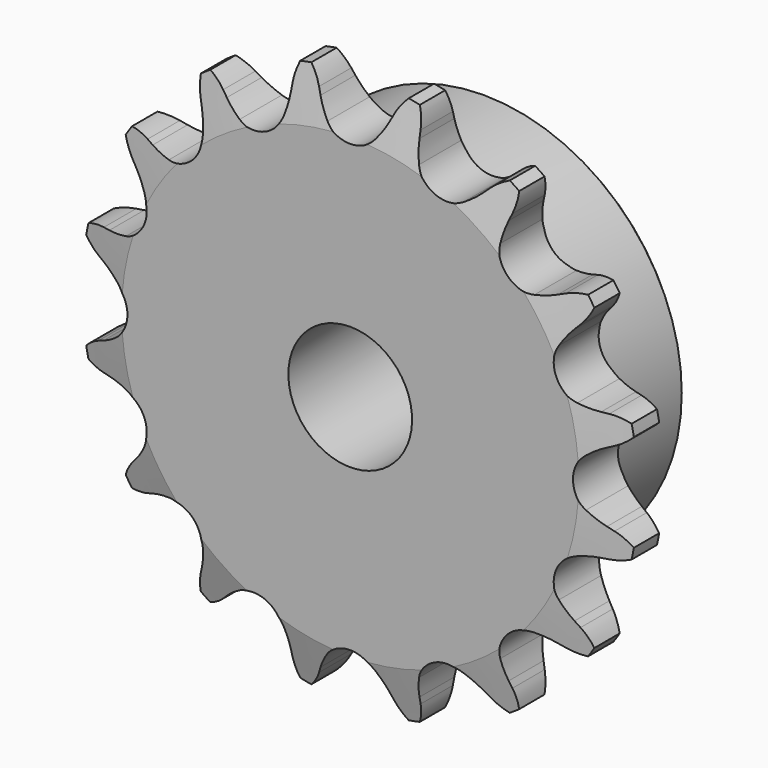
from build123d import *

# Parameters (mm, degrees)
F0_W     = 7.2136
F0_H     = 10.287
F0_H_2   = 17.4625
F0_W_2   = 15.0114
F2_R     = 1.5875
F3_SIZE  = 0.79375
F4_SIZE2 = 6.35
F4_SIZE  = 1.5748
F6_DEPTH = 22.226


with BuildPart() as f1:
    # F0 (on Right) → F1 (revolve)
    with BuildSketch(Plane.YZ):
        with Locations((2.0406591741, 30.5435)):
            Rectangle(F0_W, F0_H)
        with Locations((2.0406591741, 16.66875)):
            Rectangle(F0_W, F0_H_2)
        with Locations((13.1531591741, 16.66875)):
            Rectangle(F0_W_2, F0_H_2)
    revolve(axis=Axis((0, 10.329429587, 0), (0, 1, 0)))

    # F2
    f2_edges = [f1.edges().sort_by_distance(p)[0] for p in [
        (0, 5.647459, -25.4),
    ]]
    fillet(f2_edges, radius=F2_R)

    # F3
    f3_edges = [f1.edges().sort_by_distance(p)[0] for p in [
        (0, 20.658859, -25.4),
    ]]
    chamfer(f3_edges, length=F3_SIZE)

    # F4
    f4_edges = [f1.edges().sort_by_distance(p)[0] for p in [
        (0, -1.566141, -35.687),
        (0, 5.647459, -35.687),
    ]]
    f4_side = f1.faces().sort_by_distance((0, 2.040659, -35.687))[0]
    chamfer(f4_edges, length=F4_SIZE, length2=F4_SIZE2, reference=f4_side)

    # F5 (on face) → F6 (intersect, through all)
    with BuildSketch(Plane.XZ.offset(1.5661408259)):
        with BuildLine():
            ThreePointArc((-3.0902142758, 30.0699408338), (-3.8441959519, 31.1417538349), (-4.4568878106, 32.3001493474))
            Line((-4.4568878106, 32.3001493474), (-4.8164154778, 33.0982711732))
            ThreePointArc((-4.8164154778, 33.0982711732), (-5.7824590494, 34.6345413147), (-7.1308367855, 35.8491373836))
            ThreePointArc((-7.1308367855, 35.8491373836), (-7.9117695854, 34.2109951151), (-8.2163723379, 32.4219777052))
            Line((-8.2163723379, 32.4219777052), (-8.2431045912, 31.5470240041))
            ThreePointArc((-8.2431045912, 31.5470240041), (-8.3658592885, 30.2423390761), (-8.6522824488, 28.963576686))
            ThreePointArc((-8.6522824488, 28.963576686), (-10.9400391594, 26.4115909116), (-14.3622538898, 26.5984290744))
            ThreePointArc((-14.3622538898, 26.5984290744), (-15.4690072063, 27.300118873), (-16.4783594451, 28.135869754))
            Line((-16.4783594451, 28.135869754), (-17.115947698, 28.7356528917))
            ThreePointArc((-17.115947698, 28.7356528917), (-18.596360712, 29.7852925621), (-20.3069050971, 30.3914311902))
            ThreePointArc((-20.3069050971, 30.3914311902), (-20.4015030212, 28.5791350327), (-19.9982919468, 26.8097320375))
            Line((-19.9982919468, 26.8097320375), (-19.688159043, 25.9911502307))
            ThreePointArc((-19.688159043, 25.9911502307), (-19.3022882889, 24.7388023405), (-19.0775476037, 23.4477705432))
            ThreePointArc((-19.0775476037, 23.4477705432), (-20.2145565285, 20.2145565285), (-23.4477705432, 19.0775476037))
            ThreePointArc((-23.4477705432, 19.0775476037), (-24.7388023405, 19.3022882889), (-25.9911502307, 19.688159043))
            Line((-25.9911502307, 19.688159043), (-26.8097320375, 19.9982919468))
            ThreePointArc((-26.8097320375, 19.9982919468), (-28.5791350327, 20.4015030212), (-30.3914311902, 20.3069050971))
            ThreePointArc((-30.3914311902, 20.3069050971), (-29.7852925621, 18.596360712), (-28.7356528917, 17.115947698))
            Line((-28.7356528917, 17.115947698), (-28.135869754, 16.4783594451))
            ThreePointArc((-28.135869754, 16.4783594451), (-27.300118873, 15.4690072063), (-26.5984290744, 14.3622538898))
            ThreePointArc((-26.5984290744, 14.3622538898), (-26.4115909116, 10.9400391594), (-28.963576686, 8.6522824488))
            ThreePointArc((-28.963576686, 8.6522824488), (-30.2423390761, 8.3658592885), (-31.5470240041, 8.2431045912))
            Line((-31.5470240041, 8.2431045912), (-32.4219777052, 8.2163723379))
            ThreePointArc((-32.4219777052, 8.2163723379), (-34.2109951151, 7.9117695854), (-35.8491373836, 7.1308367855))
            ThreePointArc((-35.8491373836, 7.1308367855), (-34.6345413147, 5.7824590494), (-33.0982711732, 4.8164154778))
            Line((-33.0982711732, 4.8164154778), (-32.3001493474, 4.4568878106))
            ThreePointArc((-32.3001493474, 4.4568878106), (-31.1417538349, 3.8441959519), (-30.0699408338, 3.0902142758))
            ThreePointArc((-30.0699408338, 3.0902142758), (-28.5877, 0), (-30.0699408338, -3.0902142758))
            ThreePointArc((-30.0699408338, -3.0902142758), (-31.1417538349, -3.8441959519), (-32.3001493474, -4.4568878106))
            Line((-32.3001493474, -4.4568878106), (-33.0982711732, -4.8164154778))
            ThreePointArc((-33.0982711732, -4.8164154778), (-34.6345413147, -5.7824590494), (-35.8491373836, -7.1308367855))
            ThreePointArc((-35.8491373836, -7.1308367855), (-34.2109951151, -7.9117695854), (-32.4219777052, -8.2163723379))
            Line((-32.4219777052, -8.2163723379), (-31.5470240041, -8.2431045912))
            ThreePointArc((-31.5470240041, -8.2431045912), (-30.2423390761, -8.3658592885), (-28.963576686, -8.6522824488))
            ThreePointArc((-28.963576686, -8.6522824488), (-26.4115909116, -10.9400391594), (-26.5984290744, -14.3622538898))
            ThreePointArc((-26.5984290744, -14.3622538898), (-27.300118873, -15.4690072063), (-28.135869754, -16.4783594451))
            Line((-28.135869754, -16.4783594451), (-28.7356528917, -17.115947698))
            ThreePointArc((-28.7356528917, -17.115947698), (-29.7852925621, -18.596360712), (-30.3914311902, -20.3069050971))
            ThreePointArc((-30.3914311902, -20.3069050971), (-28.5791350327, -20.4015030212), (-26.8097320375, -19.9982919468))
            Line((-26.8097320375, -19.9982919468), (-25.9911502307, -19.688159043))
            ThreePointArc((-25.9911502307, -19.688159043), (-24.7388023405, -19.3022882889), (-23.4477705432, -19.0775476037))
            ThreePointArc((-23.4477705432, -19.0775476037), (-20.2145565285, -20.2145565285), (-19.0775476037, -23.4477705432))
            ThreePointArc((-19.0775476037, -23.4477705432), (-19.3022882889, -24.7388023405), (-19.688159043, -25.9911502307))
            Line((-19.688159043, -25.9911502307), (-19.9982919468, -26.8097320375))
            ThreePointArc((-19.9982919468, -26.8097320375), (-20.4015030212, -28.5791350327), (-20.3069050971, -30.3914311902))
            ThreePointArc((-20.3069050971, -30.3914311902), (-18.596360712, -29.7852925621), (-17.115947698, -28.7356528917))
            Line((-17.115947698, -28.7356528917), (-16.4783594451, -28.135869754))
            ThreePointArc((-16.4783594451, -28.135869754), (-15.4690072063, -27.300118873), (-14.3622538898, -26.5984290744))
            ThreePointArc((-14.3622538898, -26.5984290744), (-10.9400391594, -26.4115909116), (-8.6522824488, -28.963576686))
            ThreePointArc((-8.6522824488, -28.963576686), (-8.3658592885, -30.2423390761), (-8.2431045912, -31.5470240041))
            Line((-8.2431045912, -31.5470240041), (-8.2163723379, -32.4219777052))
            ThreePointArc((-8.2163723379, -32.4219777052), (-7.9117695854, -34.2109951151), (-7.1308367855, -35.8491373836))
            ThreePointArc((-7.1308367855, -35.8491373836), (-5.7824590494, -34.6345413147), (-4.8164154778, -33.0982711732))
            Line((-4.8164154778, -33.0982711732), (-4.4568878106, -32.3001493474))
            ThreePointArc((-4.4568878106, -32.3001493474), (-3.8441959519, -31.1417538349), (-3.0902142758, -30.0699408338))
            ThreePointArc((-3.0902142758, -30.0699408338), (0, -28.5877), (3.0902142758, -30.0699408338))
            ThreePointArc((3.0902142758, -30.0699408338), (3.8441959519, -31.1417538349), (4.4568878106, -32.3001493474))
            Line((4.4568878106, -32.3001493474), (4.8164154778, -33.0982711732))
            ThreePointArc((4.8164154778, -33.0982711732), (5.7824590494, -34.6345413147), (7.1308367855, -35.8491373836))
            ThreePointArc((7.1308367855, -35.8491373836), (7.9117695854, -34.2109951151), (8.2163723379, -32.4219777052))
            Line((8.2163723379, -32.4219777052), (8.2431045912, -31.5470240041))
            ThreePointArc((8.2431045912, -31.5470240041), (8.3658592885, -30.2423390761), (8.6522824488, -28.963576686))
            ThreePointArc((8.6522824488, -28.963576686), (10.9400391594, -26.4115909116), (14.3622538898, -26.5984290744))
            ThreePointArc((14.3622538898, -26.5984290744), (15.4690072063, -27.300118873), (16.4783594451, -28.135869754))
            Line((16.4783594451, -28.135869754), (17.115947698, -28.7356528917))
            ThreePointArc((17.115947698, -28.7356528917), (18.596360712, -29.7852925621), (20.3069050971, -30.3914311902))
            ThreePointArc((20.3069050971, -30.3914311902), (20.4015030212, -28.5791350327), (19.9982919468, -26.8097320375))
            Line((19.9982919468, -26.8097320375), (19.688159043, -25.9911502307))
            ThreePointArc((19.688159043, -25.9911502307), (19.3022882889, -24.7388023405), (19.0775476037, -23.4477705432))
            ThreePointArc((19.0775476037, -23.4477705432), (20.2145565285, -20.2145565285), (23.4477705432, -19.0775476037))
            ThreePointArc((23.4477705432, -19.0775476037), (24.7388023405, -19.3022882889), (25.9911502307, -19.688159043))
            Line((25.9911502307, -19.688159043), (26.8097320375, -19.9982919468))
            ThreePointArc((26.8097320375, -19.9982919468), (28.5791350327, -20.4015030212), (30.3914311902, -20.3069050971))
            ThreePointArc((30.3914311902, -20.3069050971), (29.7852925621, -18.596360712), (28.7356528917, -17.115947698))
            Line((28.7356528917, -17.115947698), (28.135869754, -16.4783594451))
            ThreePointArc((28.135869754, -16.4783594451), (27.300118873, -15.4690072063), (26.5984290744, -14.3622538898))
            ThreePointArc((26.5984290744, -14.3622538898), (26.4115909116, -10.9400391594), (28.963576686, -8.6522824488))
            ThreePointArc((28.963576686, -8.6522824488), (30.2423390761, -8.3658592885), (31.5470240041, -8.2431045912))
            Line((31.5470240041, -8.2431045912), (32.4219777052, -8.2163723379))
            ThreePointArc((32.4219777052, -8.2163723379), (34.2109951151, -7.9117695854), (35.8491373836, -7.1308367855))
            ThreePointArc((35.8491373836, -7.1308367855), (34.6345413147, -5.7824590494), (33.0982711732, -4.8164154778))
            Line((33.0982711732, -4.8164154778), (32.3001493474, -4.4568878106))
            ThreePointArc((32.3001493474, -4.4568878106), (31.1417538349, -3.8441959519), (30.0699408338, -3.0902142758))
            ThreePointArc((30.0699408338, -3.0902142758), (28.5877, 0), (30.0699408338, 3.0902142758))
            ThreePointArc((30.0699408338, 3.0902142758), (31.1417538349, 3.8441959519), (32.3001493474, 4.4568878106))
            Line((32.3001493474, 4.4568878106), (33.0982711732, 4.8164154778))
            ThreePointArc((33.0982711732, 4.8164154778), (34.6345413147, 5.7824590494), (35.8491373836, 7.1308367855))
            ThreePointArc((35.8491373836, 7.1308367855), (34.2109951151, 7.9117695854), (32.4219777052, 8.2163723379))
            Line((32.4219777052, 8.2163723379), (31.5470240041, 8.2431045912))
            ThreePointArc((31.5470240041, 8.2431045912), (30.2423390761, 8.3658592885), (28.963576686, 8.6522824488))
            ThreePointArc((28.963576686, 8.6522824488), (26.4115909116, 10.9400391594), (26.5984290744, 14.3622538898))
            ThreePointArc((26.5984290744, 14.3622538898), (27.300118873, 15.4690072063), (28.135869754, 16.4783594451))
            Line((28.135869754, 16.4783594451), (28.7356528917, 17.115947698))
            ThreePointArc((28.7356528917, 17.115947698), (29.7852925621, 18.596360712), (30.3914311902, 20.3069050971))
            ThreePointArc((30.3914311902, 20.3069050971), (28.5791350327, 20.4015030212), (26.8097320375, 19.9982919468))
            Line((26.8097320375, 19.9982919468), (25.9911502307, 19.688159043))
            ThreePointArc((25.9911502307, 19.688159043), (24.7388023405, 19.3022882889), (23.4477705432, 19.0775476037))
            ThreePointArc((23.4477705432, 19.0775476037), (20.2145565285, 20.2145565285), (19.0775476037, 23.4477705432))
            ThreePointArc((19.0775476037, 23.4477705432), (19.3022882889, 24.7388023405), (19.688159043, 25.9911502307))
            Line((19.688159043, 25.9911502307), (19.9982919468, 26.8097320375))
            ThreePointArc((19.9982919468, 26.8097320375), (20.4015030212, 28.5791350327), (20.3069050971, 30.3914311902))
            ThreePointArc((20.3069050971, 30.3914311902), (18.596360712, 29.7852925621), (17.115947698, 28.7356528917))
            Line((17.115947698, 28.7356528917), (16.4783594451, 28.135869754))
            ThreePointArc((16.4783594451, 28.135869754), (15.4690072063, 27.300118873), (14.3622538898, 26.5984290744))
            ThreePointArc((14.3622538898, 26.5984290744), (10.9400391594, 26.4115909116), (8.6522824488, 28.963576686))
            ThreePointArc((8.6522824488, 28.963576686), (8.3658592885, 30.2423390761), (8.2431045912, 31.5470240041))
            Line((8.2431045912, 31.5470240041), (8.2163723379, 32.4219777052))
            ThreePointArc((8.2163723379, 32.4219777052), (7.9117695854, 34.2109951151), (7.1308367855, 35.8491373836))
            ThreePointArc((7.1308367855, 35.8491373836), (5.7824590494, 34.6345413147), (4.8164154778, 33.0982711732))
            Line((4.8164154778, 33.0982711732), (4.4568878106, 32.3001493474))
            ThreePointArc((4.4568878106, 32.3001493474), (3.8441959519, 31.1417538349), (3.0902142758, 30.0699408338))
            ThreePointArc((3.0902142758, 30.0699408338), (0, 28.5877), (-3.0902142758, 30.0699408338))
        make_face()
    extrude(amount=-F6_DEPTH, mode=Mode.INTERSECT)


solid = f1.part
